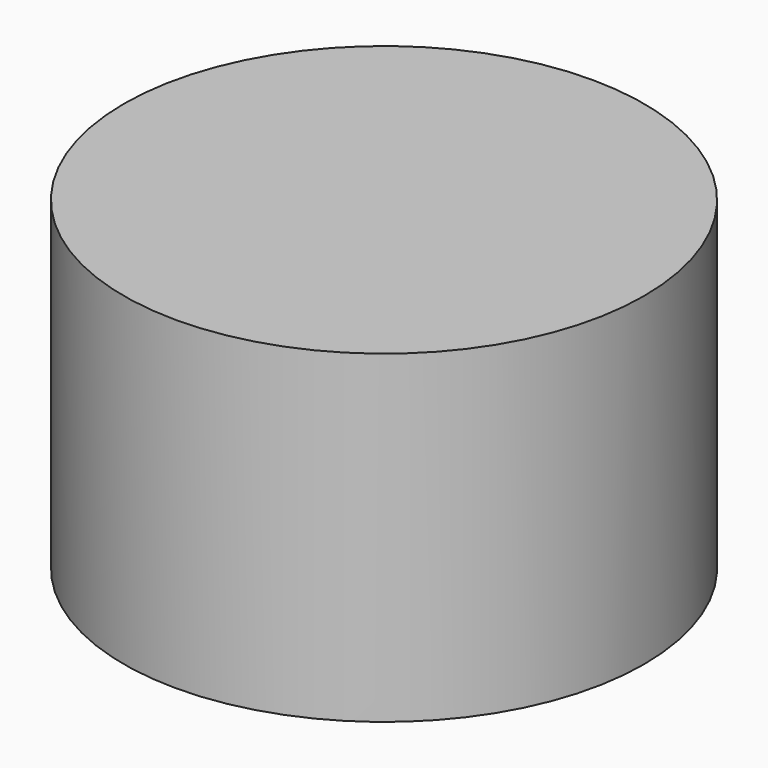
from build123d import *

# Parameters (mm, degrees)
F0_R     = 63.5
F1_DEPTH = 79.143884
F3_DEPTH = 25.4


with BuildPart() as f1:
    # F0 (on Top) → F1 (new body)
    with BuildSketch(Plane.XY):
        Circle(F0_R)
    extrude(amount=F1_DEPTH)

    # F2 (on Front) → F3 (join)
    with BuildSketch(Plane.XZ):
        Polygon((31.393245, 51.816419), (0, 48.587725), (11.091411, 0), (30.679762, -6.415322), align=None)
    extrude(amount=F3_DEPTH)


solid = f1.part
